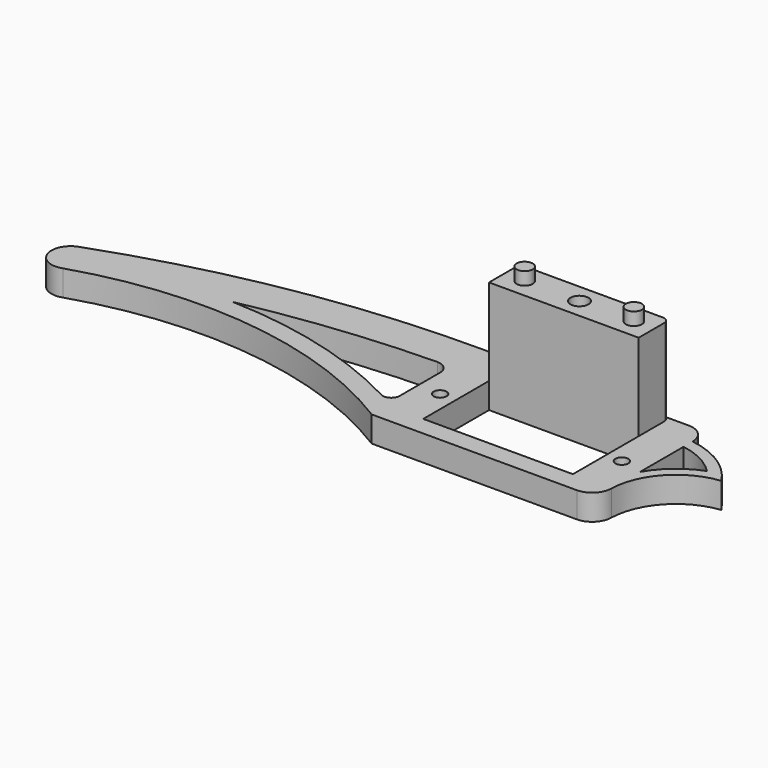
from build123d import *

# Parameters (mm, degrees)
SKETCH_R     = 1
SKETCH_W     = 23.3
SKETCH_H     = 12.8
PAD_DEPTH    = 4
SKETCH001_W  = 23.3
SKETCH001_H  = 6
PAD001_DEPTH = 13.5
FILLET_R     = 1
FILLET001_R  = 1
SKETCH002_R  = 1.25
PAD002_DEPTH = 2
SKETCH003_R  = 1.4
POCKET_DEPTH = 11


with BuildPart() as part:
    # Sketch → Pad (new body)
    with BuildSketch(Plane.XY):
        with BuildLine():
            Line((-17.65, 12.4), (14.65, 12.4))
            ThreePointArc((17.65, 9.4), (16.77132, 11.52132), (14.65, 12.4))
            ThreePointArc((26.84, 3.51), (22.883245, 7.450836), (17.65, 9.4))
            ThreePointArc((26.84, 3.51), (20.406481, 0.259943), (17.65, -6.4))
            ThreePointArc((14.65, -9.4), (16.77132, -8.52132), (17.65, -6.4))
            Line((14.65, -9.4), (-17.27, -9.4))
            ThreePointArc((-17.27, -9.4), (-43.226691, -0.259051), (-70.626477, -2.82))
            ThreePointArc((-72.67, 2.821276), (-74.470639, -1.021762), (-70.626477, -2.82))
            ThreePointArc((-17.65, 12.4), (-45.579054, 10.017677), (-72.67, 2.821276))
        make_face()
        with Locations((-14.15, 0)):
            Circle(SKETCH_R, mode=Mode.SUBTRACT)
        with Locations((14.15, 0)):
            Circle(SKETCH_R, mode=Mode.SUBTRACT)
        Rectangle(SKETCH_W, SKETCH_H, mode=Mode.SUBTRACT)
        with BuildLine():
            Line((17.65, 7.636176), (17.65, -0.84))
            ThreePointArc((23.88, 4.42), (20.301686, 2.338754), (17.65, -0.84))
            ThreePointArc((23.88, 4.42), (21.017458, 6.51712), (17.65, 7.636176))
        make_face(mode=Mode.SUBTRACT)
        with BuildLine():
            Line((-17.66615, -3.466269), (-17.66615, 4.388555))
            ThreePointArc((-17.66615, 4.388555), (-18.261027, 5.807615), (-19.69, 6.378267))
            ThreePointArc((-19.69, 6.378267), (-34.408413, 5.451456), (-48.98, 3.18))
            ThreePointArc((-19.59, -4.623545), (-33.83794, 0.961961), (-48.98, 3.18))
            ThreePointArc((-19.59, -4.623545), (-18.300889, -4.58882), (-17.66615, -3.466269))
        make_face(mode=Mode.SUBTRACT)
    extrude(amount=PAD_DEPTH)

    # Sketch001 (on Face25 of Pad) → Pad001 (join)
    with BuildSketch(Plane.XY.offset(4)):
        with Locations((0, 9.4)):
            Rectangle(SKETCH001_W, SKETCH001_H)
    extrude(amount=PAD001_DEPTH)

    # Fillet
    fillet_edges = [part.edges().sort_by_distance(p)[0] for p in [
        (-11.65, 12.4, 10.75),
    ]]
    fillet(fillet_edges, radius=FILLET_R)

    # Fillet001
    fillet001_edges = [part.edges().sort_by_distance(p)[0] for p in [
        (11.65, 12.4, 10.75),
    ]]
    fillet(fillet001_edges, radius=FILLET001_R)

    # Sketch002 (on Face29 of Fillet001) → Pad002 (join)
    with BuildSketch(Plane.XY.offset(17.5)):
        with Locations((8.5, 9.4)):
            Circle(SKETCH002_R)
        with Locations((-8.5, 9.4)):
            Circle(SKETCH002_R)
    extrude(amount=PAD002_DEPTH)

    # Sketch003 (on Face28 of Pad002) → Pocket (cut)
    with BuildSketch(Plane.XY.offset(17.5)):
        with Locations((0, 9.44)):
            Circle(SKETCH003_R)
    extrude(amount=-POCKET_DEPTH, mode=Mode.SUBTRACT)


solid = part.part
